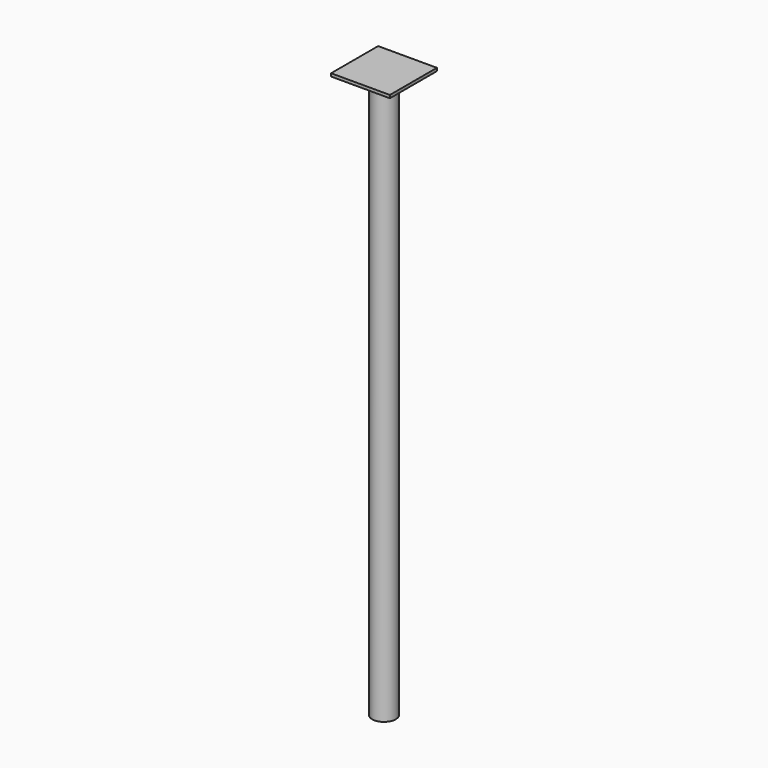
from build123d import *

# Parameters (mm, degrees)
F0_R     = 25.4
F0_R_2   = 23.8125
F1_DEPTH = 1219.2
F2_W     = 127
F2_H     = 127
F3_DEPTH = 6.35


with BuildPart() as f1:
    # F0 (on Top) → F1 (new body)
    with BuildSketch(Plane.XY):
        Circle(F0_R)
        Circle(F0_R_2, mode=Mode.SUBTRACT)
    extrude(amount=F1_DEPTH)

    # F2 (on face) → F3 (join)
    with BuildSketch(Plane.XY.offset(1219.2)):
        Rectangle(F2_W, F2_H)
    extrude(amount=F3_DEPTH)


solid = f1.part
